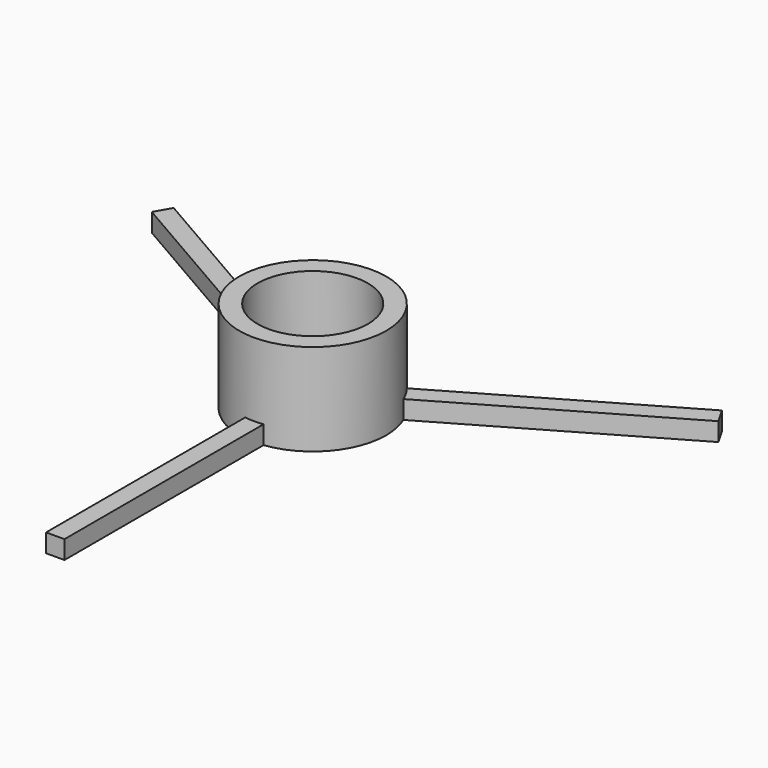
from build123d import *

# Parameters (mm, degrees)
F3_W     = 2
F3_H     = 2
F4_DEPTH = 35
F1_COUNT = 3


with BuildPart() as f2:
    # F0 (on Front) → F2 (revolve)
    with BuildSketch(Plane.XZ):
        Polygon((0, 5), (0, 0), (8, 0), (8, 10), (6, 10), (6, 2), (3, 2), align=None)
    revolve(axis=Axis((0, 0, 2.5), (0, 0, -1)))

    # F3 (on Front) → F4 (join)
    with BuildSketch(Plane.XZ):
        with Locations((0, 1)):
            Rectangle(F3_W, F3_H)
    extrude(amount=F4_DEPTH)

    # F1: F2 ×3 about axis
    f1_axis = Axis((0, 0, 2), (0, 0, 1))


with BuildPart() as f2_1:
    add(f2.part)
    for i in range(1, F1_COUNT):
        add(f2.part.rotate(f1_axis, i * 360 / F1_COUNT))


solid = f2_1.part
